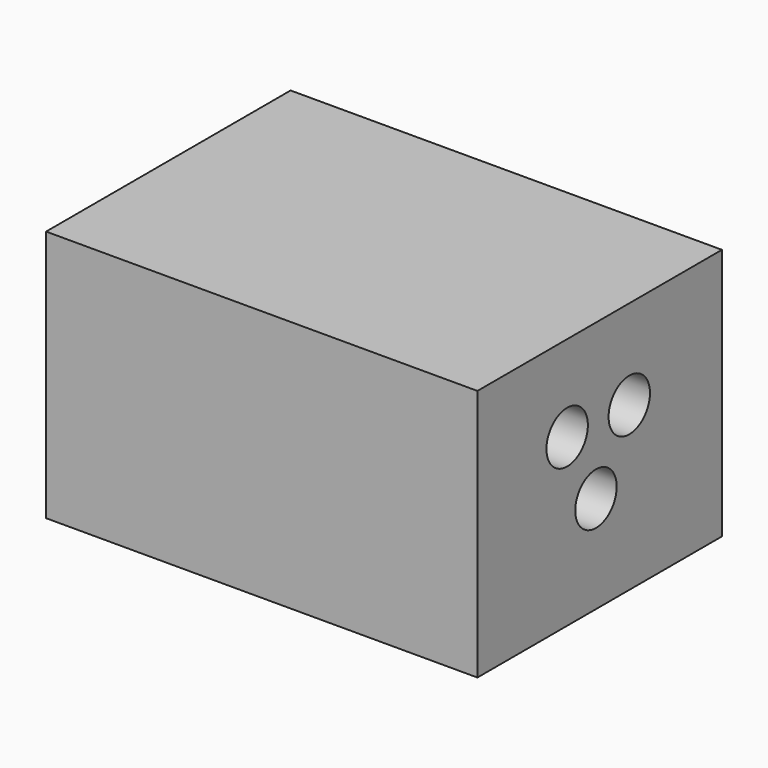
from build123d import *

# Parameters (mm, degrees)
F0_W     = 17.711945
F0_H     = 14.62457
F0_R     = 1.5
F1_DEPTH = 25


with BuildPart() as f1:
    # F0 (on Right) → F1 (new body)
    with BuildSketch(Plane.YZ):
        with Locations((-22.328131, 28.272612)):
            Rectangle(F0_W, F0_H)
        with Locations((-22.596071, 26.598655)):
            Circle(F0_R, mode=Mode.SUBTRACT)
        with Locations((-24.684104, 30.584897)):
            Circle(F0_R, mode=Mode.SUBTRACT)
        with Locations((-20.184104, 30.397657)):
            Circle(F0_R, mode=Mode.SUBTRACT)
        with Locations((-22.328131, 28.272612)):
            Rectangle(F0_W, F0_H)
        with Locations((-22.596071, 26.598655)):
            Circle(F0_R, mode=Mode.SUBTRACT)
        with Locations((-24.684104, 30.584897)):
            Circle(F0_R, mode=Mode.SUBTRACT)
        with Locations((-20.184104, 30.397657)):
            Circle(F0_R, mode=Mode.SUBTRACT)
    extrude(amount=F1_DEPTH)


solid = f1.part
